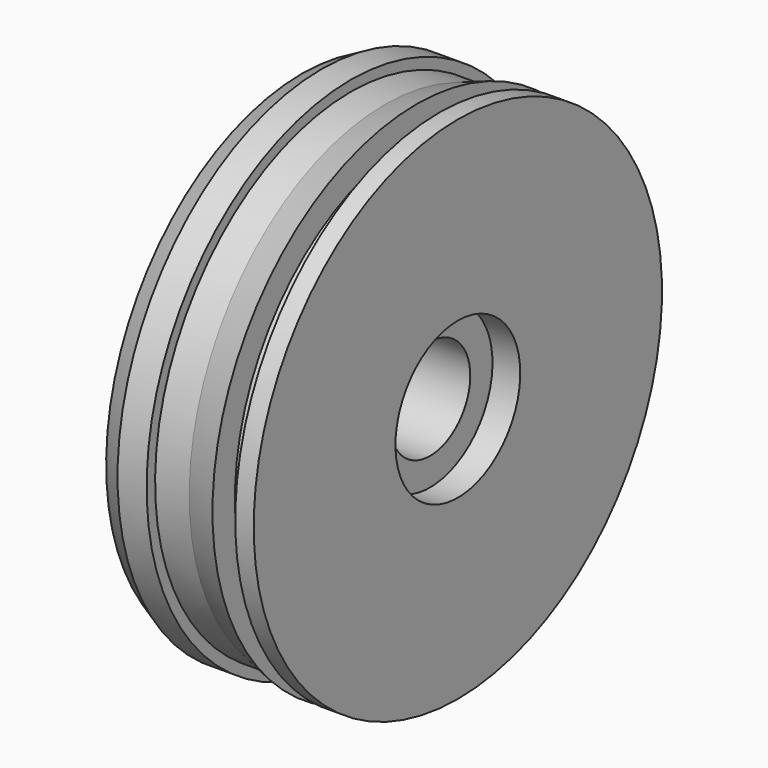
from build123d import *


with BuildPart() as f1:
    # F0 (on Front) → F1 (revolve)
    with BuildSketch(Plane.XZ):
        Polygon((-3.402234, 9.558655), (0, 9.558655), (0, 31.268153), (-2.268156, 31.268153), (-2.268156, 27.833318), (-5.053954, 27.833318), (-5.053954, 31.268153), (-8.942222, 29.972063), (-13.122904, 29.972063), (-13.122904, 31.268153), (-16.687149, 31.268153), (-19.117316, 29.972063), (-19.117316, 9.558655), (-19.117316, 6.156421), (-3.402234, 6.156421), align=None)
    revolve(axis=Axis((-11.745809, 0, 0), (1, 0, 0)))


solid = f1.part
